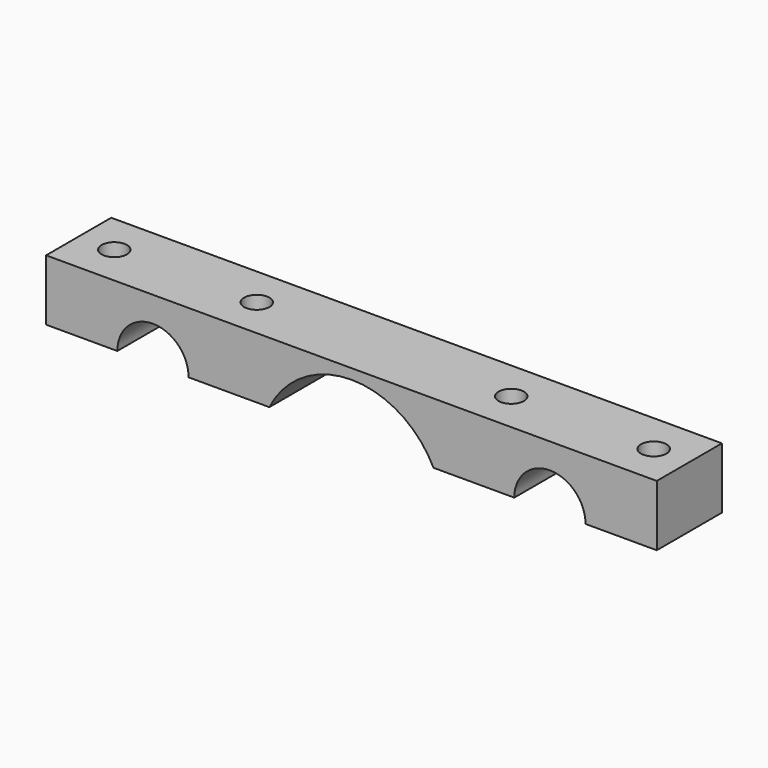
from build123d import *

# Parameters (mm, degrees)
F1_DEPTH = 8
F3_D     = 5


with BuildPart() as f1:
    # F0 (on Front) → F1 (new body, symmetric)
    with BuildSketch(Plane.XZ):
        with BuildLine():
            Line((-60, -6), (-46, -6))
            ThreePointArc((-46, -6), (-39, 1), (-32, -6))
            Line((-32, -6), (-16.124515, -6))
            ThreePointArc((-16.124515, -6), (0, 4), (16.124515, -6))
            Line((16.124515, -6), (32, -6))
            ThreePointArc((32, -6), (39, 1), (46, -6))
            Line((46, -6), (60, -6))
            Line((60, -6), (60, 6))
            Line((60, 6), (-60, 6))
            Line((-60, 6), (-60, -6))
        make_face()
    extrude(amount=F1_DEPTH, both=True)

    # F3 (through all)
    with Locations(Plane.XY.offset(6)):
        with Locations((-53, 0), (-25, 0), (25, 0), (53, 0)):
            Hole(F3_D / 2)


solid = f1.part
